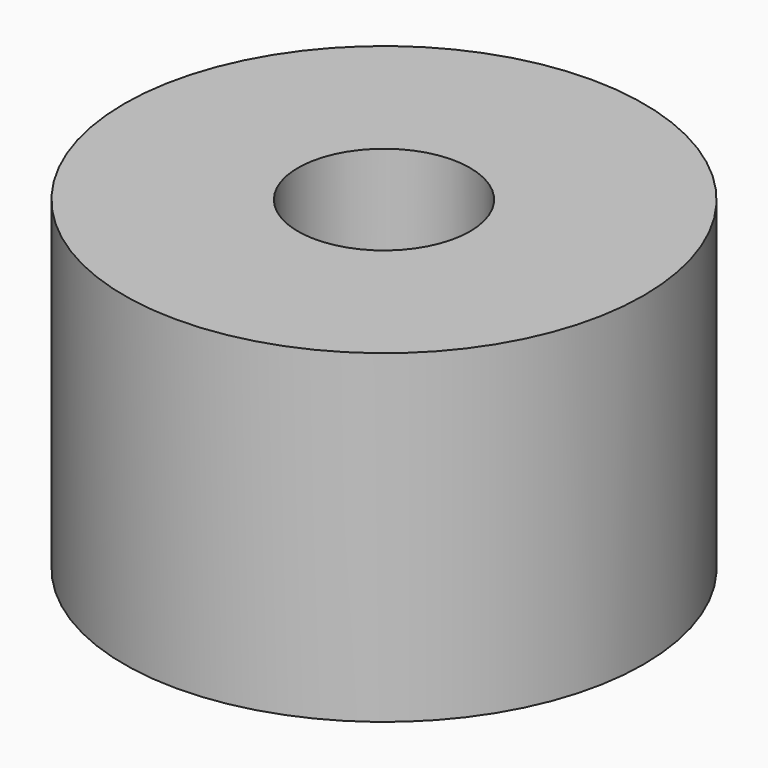
from build123d import *

# Parameters (mm, degrees)
CYLINDER1066_R     = 1
CYLINDER1066_DEPTH = 20
CYLINDER1068_R     = 1
CYLINDER1068_DEPTH = 20
CYLINDER1069_R     = 1
CYLINDER1069_DEPTH = 20
CYLINDER1062_R     = 1
CYLINDER1062_DEPTH = 20
TUBE094_R          = 8
TUBE094_R_2        = 2.65
TUBE094_DEPTH      = 10


with BuildPart() as obj1:
    # Cylinder1066 → Cylinder1066 (new body)
    with BuildSketch(Plane(origin=(4.25, -4.25, -88), x_dir=(0, 1, 0), z_dir=(0, 0, 1))):
        Circle(CYLINDER1066_R)
    extrude(amount=CYLINDER1066_DEPTH)


with BuildPart() as obj2:
    # Cylinder1068 → Cylinder1068 (new body)
    with BuildSketch(Plane(origin=(4.25, 4.25, -88), x_dir=(-1, 0, 0), z_dir=(0, 0, 1))):
        Circle(CYLINDER1068_R)
    extrude(amount=CYLINDER1068_DEPTH)


with BuildPart() as obj3:
    # Cylinder1069 → Cylinder1069 (new body)
    with BuildSketch(Plane(origin=(-4.25, 4.25, -88), x_dir=(0, -1, 0), z_dir=(0, 0, 1))):
        Circle(CYLINDER1069_R)
    extrude(amount=CYLINDER1069_DEPTH)


with BuildPart() as compound850:
    # Cylinder1062 → Cylinder1062 (new body)
    with BuildSketch(Plane(origin=(-4.25, -4.25, -88), x_dir=(1, 0, 0), z_dir=(0, 0, 1))):
        Circle(CYLINDER1062_R)
    extrude(amount=CYLINDER1062_DEPTH)

    # Compound850: union obj1, obj2, obj3
    add(obj1.part)
    add(obj2.part)
    add(obj3.part)


with BuildPart() as compound850_1:
    # Compound850 placement: moved
    add(compound850.part.moved(Location((0, 0, 91))))


with BuildPart() as cut392:
    # Tube094 → Tube094 (new body)
    with BuildSketch(Plane.XY.offset(19)):
        Circle(TUBE094_R)
        Circle(TUBE094_R_2, mode=Mode.SUBTRACT)
    extrude(amount=TUBE094_DEPTH)

    # Cut392: cut Compound850
    add(compound850_1.part, mode=Mode.SUBTRACT)


solid = cut392.part
